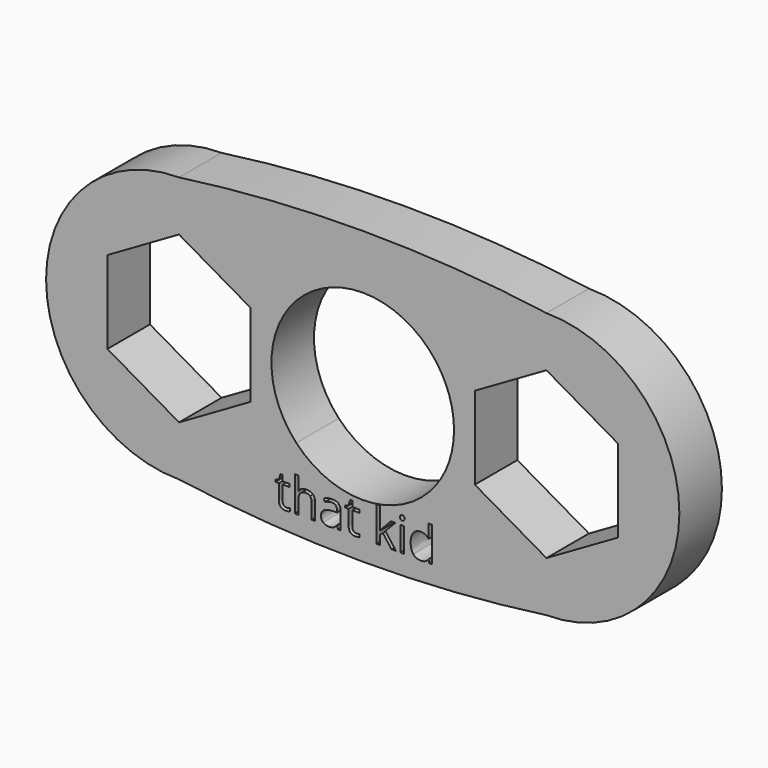
from build123d import *

# Parameters (mm, degrees)
F0_W     = 0.4433159805
F0_H     = 2.9255438019
F1_DEPTH = 6.35


with BuildPart() as f1:
    # F0 (on Front) → F1 (new body)
    with BuildSketch(Plane.XZ):
        with BuildLine():
            ThreePointArc((21.9326712777, -15.875), (13.7689882176, -13.6150616559), (7.9296415829, -7.4786886796))
            ThreePointArc((7.9296415829, -7.4786886796), (0, -10.9), (-7.9296415829, -7.4786886796))
            ThreePointArc((-7.9296415829, -7.4786886796), (-13.7689882176, -13.6150616559), (-21.9326712777, -15.875))
            ThreePointArc((-21.9326712777, -15.875), (0, -17.3893165852), (21.9326712777, -15.875))
        make_face()
        with BuildLine():
            add(Edge.make_bspline(
                [(-9.4440569487, -14.5109655675), (-9.3184934629, -14.6523312607), (-9.0998250795, -14.6523312607)],
                knots=[0, 0, 0, 1, 1, 1], degree=2))
            add(Edge.make_bspline(
                [(-9.0998250795, -14.6523312607), (-8.981949154, -14.6523312607), (-8.8726149623, -14.6352477932)],
                knots=[0, 0, 0, 1, 1, 1], degree=2))
            add(Edge.make_bspline(
                [(-8.8726149623, -14.6352477932), (-8.7632807706, -14.6181643257), (-8.6992177676, -14.5993725115)],
                knots=[0, 0, 0, 1, 1, 1], degree=2))
            Line((-8.6992177676, -14.5993725115), (-8.6992177676, -14.9384793405))
            add(Edge.make_bspline(
                [(-8.6992177676, -14.9384793405), (-8.7709683309, -14.9726462755), (-8.9110527641, -14.9957089565)],
                knots=[0, 0, 0, 1, 1, 1], degree=2))
            add(Edge.make_bspline(
                [(-8.9110527641, -14.9957089565), (-9.0511371972, -15.0187716376), (-9.1638880824, -15.0187716376)],
                knots=[0, 0, 0, 1, 1, 1], degree=2))
            add(Edge.make_bspline(
                [(-9.1638880824, -15.0187716376), (-10.0120822417, -15.0187716376), (-10.0120822417, -14.1244521162)],
                knots=[0, 0, 0, 1, 1, 1], degree=2))
            Line((-10.0120822417, -14.1244521162), (-10.0120822417, -12.3836467824))
            Line((-10.0120822417, -12.3836467824), (-10.4314813677, -12.3836467824))
            Line((-10.4314813677, -12.3836467824), (-10.4314813677, -12.1701034392))
            Line((-10.4314813677, -12.1701034392), (-10.0120822417, -11.9856019907))
            Line((-10.0120822417, -11.9856019907), (-9.8258724464, -11.3612012552))
            Line((-9.8258724464, -11.3612012552), (-9.5696204345, -11.3612012552))
            Line((-9.5696204345, -11.3612012552), (-9.5696204345, -12.0394149132))
            Line((-9.5696204345, -12.0394149132), (-8.7205721019, -12.0394149132))
            Line((-8.7205721019, -12.0394149132), (-8.7205721019, -12.3836467824))
            Line((-8.7205721019, -12.3836467824), (-9.5696204345, -12.3836467824))
            Line((-9.5696204345, -12.3836467824), (-9.5696204345, -14.105660302))
            add(Edge.make_bspline(
                [(-9.5696204345, -14.105660302), (-9.5696204345, -14.3695998742), (-9.4440569487, -14.5109655675)],
                knots=[0, 0, 0, 1, 1, 1], degree=2))
        make_face(mode=Mode.SUBTRACT)
        with BuildLine():
            Line((-2.6320243005, -14.9649587151), (-2.960881049, -14.9649587151))
            Line((-2.960881049, -14.9649587151), (-3.0488609064, -14.5481221092))
            Line((-3.0488609064, -14.5481221092), (-3.0702152407, -14.5481221092))
            add(Edge.make_bspline(
                [(-3.0702152407, -14.5481221092), (-3.2888836242, -14.8231659352), (-3.5062707475, -14.9209687864)],
                knots=[0, 0, 0, 1, 1, 1], degree=2))
            add(Edge.make_bspline(
                [(-3.5062707475, -14.9209687864), (-3.7236578709, -15.0187716376), (-4.0499520993, -15.0187716376)],
                knots=[0, 0, 0, 1, 1, 1], degree=2))
            add(Edge.make_bspline(
                [(-4.0499520993, -15.0187716376), (-4.4847263461, -15.0187716376), (-4.7315824509, -14.7941240405)],
                knots=[0, 0, 0, 1, 1, 1], degree=2))
            add(Edge.make_bspline(
                [(-4.7315824509, -14.7941240405), (-4.9784385556, -14.5694764435), (-4.9784385556, -14.156056531)],
                knots=[0, 0, 0, 1, 1, 1], degree=2))
            add(Edge.make_bspline(
                [(-4.9784385556, -14.156056531), (-4.9784385556, -13.2702787434), (-3.5613649301, -13.2275700748)],
                knots=[0, 0, 0, 1, 1, 1], degree=2))
            Line((-3.5613649301, -13.2275700748), (-3.0650902005, -13.2113407807))
            Line((-3.0650902005, -13.2113407807), (-3.0650902005, -13.0294018523))
            add(Edge.make_bspline(
                [(-3.0650902005, -13.0294018523), (-3.0650902005, -12.685169983), (-3.212862194, -12.5211686955)],
                knots=[0, 0, 0, 1, 1, 1], degree=2))
            add(Edge.make_bspline(
                [(-3.212862194, -12.5211686955), (-3.3606341875, -12.3571674079), (-3.6869284159, -12.3571674079)],
                knots=[0, 0, 0, 1, 1, 1], degree=2))
            add(Edge.make_bspline(
                [(-3.6869284159, -12.3571674079), (-4.0525146195, -12.3571674079), (-4.5137682408, -12.5809608316)],
                knots=[0, 0, 0, 1, 1, 1], degree=2))
            Line((-4.5137682408, -12.5809608316), (-4.6504359804, -12.2418540025))
            add(Edge.make_bspline(
                [(-4.6504359804, -12.2418540025), (-4.4343301171, -12.1248322505), (-4.1767968452, -12.0582067274)],
                knots=[0, 0, 0, 1, 1, 1], degree=2))
            add(Edge.make_bspline(
                [(-4.1767968452, -12.0582067274), (-3.9192635733, -11.9915812043), (-3.659594868, -11.9915812043)],
                knots=[0, 0, 0, 1, 1, 1], degree=2))
            add(Edge.make_bspline(
                [(-3.659594868, -11.9915812043), (-3.1368407638, -11.9915812043), (-2.8844325321, -12.223489275)],
                knots=[0, 0, 0, 1, 1, 1], degree=2))
            add(Edge.make_bspline(
                [(-2.8844325321, -12.223489275), (-2.6320243005, -12.4553973458), (-2.6320243005, -12.9679013694)],
                knots=[0, 0, 0, 1, 1, 1], degree=2))
            Line((-2.6320243005, -12.9679013694), (-2.6320243005, -14.9649587151))
        make_face(mode=Mode.SUBTRACT)
        with BuildLine():
            add(Edge.make_bspline(
                [(-1.1192832572, -14.5109655675), (-0.9937197714, -14.6523312607), (-0.7750513879, -14.6523312607)],
                knots=[0, 0, 0, 1, 1, 1], degree=2))
            add(Edge.make_bspline(
                [(-0.7750513879, -14.6523312607), (-0.6571754625, -14.6523312607), (-0.5478412708, -14.6352477932)],
                knots=[0, 0, 0, 1, 1, 1], degree=2))
            add(Edge.make_bspline(
                [(-0.5478412708, -14.6352477932), (-0.4385070791, -14.6181643257), (-0.3744440761, -14.5993725115)],
                knots=[0, 0, 0, 1, 1, 1], degree=2))
            Line((-0.3744440761, -14.5993725115), (-0.3744440761, -14.9384793405))
            add(Edge.make_bspline(
                [(-0.3744440761, -14.9384793405), (-0.4461946394, -14.9726462755), (-0.5862790725, -14.9957089565)],
                knots=[0, 0, 0, 1, 1, 1], degree=2))
            add(Edge.make_bspline(
                [(-0.5862790725, -14.9957089565), (-0.7263635057, -15.0187716376), (-0.8391143909, -15.0187716376)],
                knots=[0, 0, 0, 1, 1, 1], degree=2))
            add(Edge.make_bspline(
                [(-0.8391143909, -15.0187716376), (-1.6873085501, -15.0187716376), (-1.6873085501, -14.1244521162)],
                knots=[0, 0, 0, 1, 1, 1], degree=2))
            Line((-1.6873085501, -14.1244521162), (-1.6873085501, -12.3836467824))
            Line((-1.6873085501, -12.3836467824), (-2.1067076762, -12.3836467824))
            Line((-2.1067076762, -12.3836467824), (-2.1067076762, -12.1701034392))
            Line((-2.1067076762, -12.1701034392), (-1.6873085501, -11.9856019907))
            Line((-1.6873085501, -11.9856019907), (-1.5010987548, -11.3612012552))
            Line((-1.5010987548, -11.3612012552), (-1.244846743, -11.3612012552))
            Line((-1.244846743, -11.3612012552), (-1.244846743, -12.0394149132))
            Line((-1.244846743, -12.0394149132), (-0.3957984104, -12.0394149132))
            Line((-0.3957984104, -12.0394149132), (-0.3957984104, -12.3836467824))
            Line((-0.3957984104, -12.3836467824), (-1.244846743, -12.3836467824))
            Line((-1.244846743, -12.3836467824), (-1.244846743, -14.105660302))
            add(Edge.make_bspline(
                [(-1.244846743, -14.105660302), (-1.244846743, -14.3695998742), (-1.1192832572, -14.5109655675)],
                knots=[0, 0, 0, 1, 1, 1], degree=2))
        make_face(mode=Mode.SUBTRACT)
        with BuildLine():
            Line((-5.6694648142, -14.9649587151), (-6.1127807947, -14.9649587151))
            Line((-6.1127807947, -14.9649587151), (-6.1127807947, -13.0721105209))
            add(Edge.make_bspline(
                [(-6.1127807947, -13.0721105209), (-6.1127807947, -12.7150660511), (-6.2755008222, -12.5386792496)],
                knots=[0, 0, 0, 1, 1, 1], degree=2))
            add(Edge.make_bspline(
                [(-6.2755008222, -12.5386792496), (-6.4382208498, -12.3622924481), (-6.7858694125, -12.3622924481)],
                knots=[0, 0, 0, 1, 1, 1], degree=2))
            add(Edge.make_bspline(
                [(-6.7858694125, -12.3622924481), (-7.2471230338, -12.3622924481), (-7.459385117, -12.6134194197)],
                knots=[0, 0, 0, 1, 1, 1], degree=2))
            add(Edge.make_bspline(
                [(-7.459385117, -12.6134194197), (-7.6716472001, -12.8645463913), (-7.6716472001, -13.4351342044)],
                knots=[0, 0, 0, 1, 1, 1], degree=2))
            Line((-7.6716472001, -13.4351342044), (-7.6716472001, -14.9649587151))
            Line((-7.6716472001, -14.9649587151), (-8.1149631806, -14.9649587151))
            Line((-8.1149631806, -14.9649587151), (-8.1149631806, -10.8111136031))
            Line((-8.1149631806, -10.8111136031), (-7.6716472001, -10.8111136031))
            Line((-7.6716472001, -10.8111136031), (-7.6716472001, -12.0684568079))
            add(Edge.make_bspline(
                [(-7.6716472001, -12.0684568079), (-7.6716472001, -12.295666925), (-7.6930015344, -12.4451472653)],
                knots=[0, 0, 0, 1, 1, 1], degree=2))
            Line((-7.6930015344, -12.4451472653), (-7.6665221599, -12.4451472653))
            add(Edge.make_bspline(
                [(-7.6665221599, -12.4451472653), (-7.5358336338, -12.2341664422), (-7.2941025693, -12.1128738232)],
                knots=[0, 0, 0, 1, 1, 1], degree=2))
            add(Edge.make_bspline(
                [(-7.2941025693, -12.1128738232), (-7.0523715048, -11.9915812043), (-6.7431607439, -11.9915812043)],
                knots=[0, 0, 0, 1, 1, 1], degree=2))
            add(Edge.make_bspline(
                [(-6.7431607439, -11.9915812043), (-6.2067398657, -11.9915812043), (-5.93810234, -12.2465519561)],
                knots=[0, 0, 0, 1, 1, 1], degree=2))
            add(Edge.make_bspline(
                [(-5.93810234, -12.2465519561), (-5.6694648142, -12.5015227079), (-5.6694648142, -13.0567354002)],
                knots=[0, 0, 0, 1, 1, 1], degree=2))
            Line((-5.6694648142, -13.0567354002), (-5.6694648142, -14.9649587151))
        make_face(mode=Mode.SUBTRACT)
        with Locations((4.7211271795, -13.5021868141)):
            Rectangle(F0_W, F0_H, mode=Mode.SUBTRACT)
        with BuildLine():
            Line((2.0471374359, -13.4675927925), (2.0684917702, -13.4675927925))
            add(Edge.make_bspline(
                [(2.0684917702, -13.4675927925), (2.1829510021, -13.3044456783), (2.4178486797, -13.0405061061)],
                knots=[0, 0, 0, 1, 1, 1], degree=2))
            Line((2.4178486797, -13.0405061061), (3.36256443, -12.0394149132))
            Line((3.36256443, -12.0394149132), (3.8887352277, -12.0394149132))
            Line((3.8887352277, -12.0394149132), (2.7031425862, -13.2856538641))
            Line((2.7031425862, -13.2856538641), (3.9715900448, -14.9649587151))
            Line((3.9715900448, -14.9649587151), (3.4351691667, -14.9649587151))
            Line((3.4351691667, -14.9649587151), (2.4016193856, -13.5820520245))
            Line((2.4016193856, -13.5820520245), (2.0684917702, -13.8707626245))
            Line((2.0684917702, -13.8707626245), (2.0684917702, -14.9649587151))
            Line((2.0684917702, -14.9649587151), (1.6303008299, -14.9649587151))
            Line((1.6303008299, -14.9649587151), (1.6303008299, -10.8111136031))
            Line((1.6303008299, -10.8111136031), (2.0684917702, -10.8111136031))
            Line((2.0684917702, -10.8111136031), (2.0684917702, -13.0140267316))
            add(Edge.make_bspline(
                [(2.0684917702, -13.0140267316), (2.0684917702, -13.1600903783), (2.0471374359, -13.4675927925)],
                knots=[0, 0, 0, 1, 1, 1], degree=2))
        make_face(mode=Mode.SUBTRACT)
        with BuildLine():
            add(Edge.make_bspline(
                [(4.536625731, -11.4696812735), (4.4618855608, -11.3962223635), (4.4618855608, -11.2467420232)],
                knots=[0, 0, 0, 1, 1, 1], degree=2))
            add(Edge.make_bspline(
                [(4.4618855608, -11.2467420232), (4.4618855608, -11.0946991628), (4.536625731, -11.0238027729)],
                knots=[0, 0, 0, 1, 1, 1], degree=2))
            add(Edge.make_bspline(
                [(4.536625731, -11.0238027729), (4.6113659011, -10.952906383), (4.7241167863, -10.952906383)],
                knots=[0, 0, 0, 1, 1, 1], degree=2))
            add(Edge.make_bspline(
                [(4.7241167863, -10.952906383), (4.8308884579, -10.952906383), (4.9081911481, -11.025084033)],
                knots=[0, 0, 0, 1, 1, 1], degree=2))
            add(Edge.make_bspline(
                [(4.9081911481, -11.025084033), (4.9854938384, -11.097261683), (4.9854938384, -11.2467420232)],
                knots=[0, 0, 0, 1, 1, 1], degree=2))
            add(Edge.make_bspline(
                [(4.9854938384, -11.2467420232), (4.9854938384, -11.3962223635), (4.9081911481, -11.4696812735)],
                knots=[0, 0, 0, 1, 1, 1], degree=2))
            add(Edge.make_bspline(
                [(4.9081911481, -11.4696812735), (4.8308884579, -11.5431401836), (4.7241167863, -11.5431401836)],
                knots=[0, 0, 0, 1, 1, 1], degree=2))
            add(Edge.make_bspline(
                [(4.7241167863, -11.5431401836), (4.6113659011, -11.5431401836), (4.536625731, -11.4696812735)],
                knots=[0, 0, 0, 1, 1, 1], degree=2))
        make_face(mode=Mode.SUBTRACT)
        with BuildLine():
            Line((7.9323919746, -14.9649587151), (7.8734540119, -14.572893137))
            Line((7.8734540119, -14.572893137), (7.8495371575, -14.572893137))
            add(Edge.make_bspline(
                [(7.8495371575, -14.572893137), (7.5428889166, -15.0187716376), (6.9313007817, -15.0187716376)],
                knots=[0, 0, 0, 1, 1, 1], degree=2))
            add(Edge.make_bspline(
                [(6.9313007817, -15.0187716376), (6.3572962751, -15.0187716376), (6.0382625204, -14.6262789728)],
                knots=[0, 0, 0, 1, 1, 1], degree=2))
            add(Edge.make_bspline(
                [(6.0382625204, -14.6262789728), (5.7192287656, -14.233786308), (5.7192287656, -13.5103014612)],
                knots=[0, 0, 0, 1, 1, 1], degree=2))
            add(Edge.make_bspline(
                [(5.7192287656, -13.5103014612), (5.7192287656, -12.7868166144), (6.0395437804, -12.3862093026)],
                knots=[0, 0, 0, 1, 1, 1], degree=2))
            add(Edge.make_bspline(
                [(6.0395437804, -12.3862093026), (6.3598587952, -11.9856019907), (6.9313007817, -11.9856019907)],
                knots=[0, 0, 0, 1, 1, 1], degree=2))
            add(Edge.make_bspline(
                [(6.9313007817, -11.9856019907), (7.5266596225, -11.9856019907), (7.8444121172, -12.4186678907)],
                knots=[0, 0, 0, 1, 1, 1], degree=2))
            Line((7.8444121172, -12.4186678907), (7.8794332255, -12.4186678907))
            Line((7.8794332255, -12.4186678907), (7.8606414113, -12.2076870676))
            Line((7.8606414113, -12.2076870676), (7.8495371575, -12.0018312848))
            Line((7.8495371575, -12.0018312848), (7.8495371575, -10.8111136031))
            Line((7.8495371575, -10.8111136031), (8.2928531379, -10.8111136031))
            Line((8.2928531379, -10.8111136031), (8.2928531379, -14.9649587151))
            Line((8.2928531379, -14.9649587151), (7.9323919746, -14.9649587151))
        make_face(mode=Mode.SUBTRACT)
        with BuildLine():
            ThreePointArc((-7.9296415829, 7.4786886796), (0, 10.9), (7.9296415829, 7.4786886796))
            ThreePointArc((7.9296415829, 7.4786886796), (13.7689882176, 13.6150616559), (21.9326712777, 15.875))
            ThreePointArc((21.9326712777, 15.875), (0, 17.3893165852), (-21.9326712777, 15.875))
            ThreePointArc((-21.9326712777, 15.875), (-13.7689882176, 13.6150616559), (-7.9296415829, 7.4786886796))
        make_face()
        with BuildLine():
            ThreePointArc((-7.9296415829, -7.4786886796), (-10.9, 0), (-7.9296415829, 7.4786886796))
            ThreePointArc((-7.9296415829, 7.4786886796), (-13.7689882176, 13.6150616559), (-21.9326712777, 15.875))
            ThreePointArc((-21.9326712777, 15.875), (-37.8076712777, 0), (-21.9326712777, -15.875))
            ThreePointArc((-21.9326712777, -15.875), (-13.7689882176, -13.6150616559), (-7.9296415829, -7.4786886796))
        make_face()
        Polygon((-21.9326712777, 9.8726896031), (-13.3826712777, 4.9363448016), (-13.3826712777, -4.9363448016), (-21.9326712777, -9.8726896031), (-30.4826712777, -4.9363448016), (-30.4826712777, 4.9363448016), align=None, mode=Mode.SUBTRACT)
        with BuildLine():
            ThreePointArc((7.9296415829, 7.4786886796), (10.1302293472, 4.0234877126), (10.9, 0))
            ThreePointArc((10.9, 0), (10.1302293472, -4.0234877126), (7.9296415829, -7.4786886796))
            ThreePointArc((7.9296415829, -7.4786886796), (13.7689882176, -13.6150616559), (21.9326712777, -15.875))
            ThreePointArc((21.9326712777, -15.875), (37.8076712777, 0), (21.9326712777, 15.875))
            ThreePointArc((21.9326712777, 15.875), (13.7689882176, 13.6150616559), (7.9296415829, 7.4786886796))
        make_face()
        Polygon((13.3826712777, -4.9363448016), (13.3826712777, 4.9363448016), (21.9326712777, 9.8726896031), (30.4826712777, 4.9363448016), (30.4826712777, -4.9363448016), (21.9326712777, -9.8726896031), align=None, mode=Mode.SUBTRACT)
    extrude(amount=F1_DEPTH)


solid = f1.part
